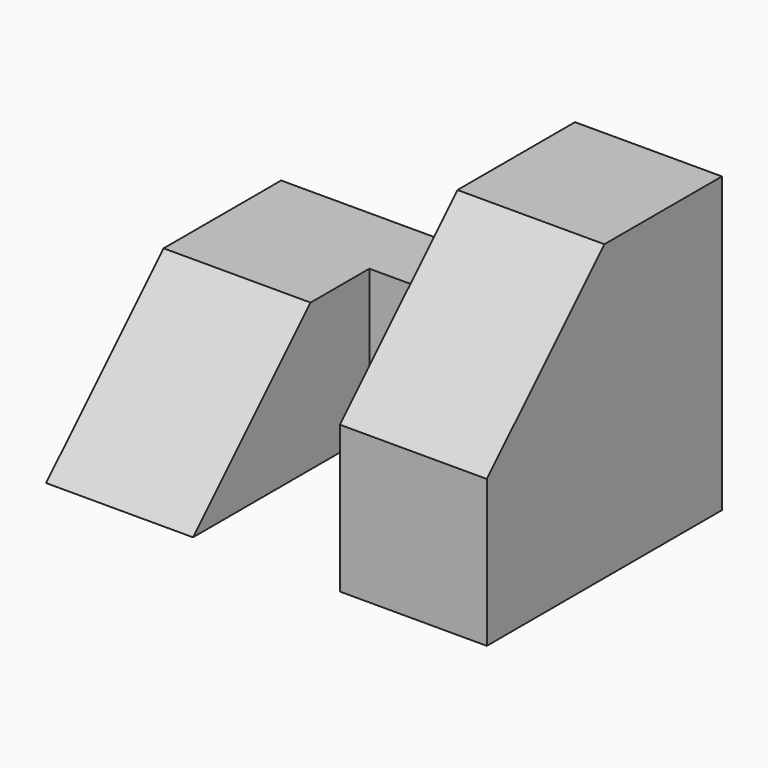
from build123d import *

# Parameters (mm, degrees)
F0_W     = 12.7
F0_H     = 12.7
F1_DEPTH = 6.35
F2_DEPTH = 19.05
F5_DEPTH = 12.701


with BuildPart() as f1:
    # F0 (on Front) → F1 (new body)
    with BuildSketch(Plane.XZ):
        with Locations((-12.7, 6.35)):
            Rectangle(F0_W, F0_H)
        Polygon((6.35, 12.7), (6.35, 0), (19.05, 0), (19.05, 25.4), (6.35, 25.4), align=None)
        with Locations((0, 6.35)):
            Rectangle(F0_W, F0_H)
    extrude(amount=-F1_DEPTH)

    # F0 (on Front) → F2 (join)
    with BuildSketch(Plane.XZ):
        with Locations((-12.7, 6.35)):
            Rectangle(F0_W, F0_H)
        Polygon((6.35, 12.7), (6.35, 0), (19.05, 0), (19.05, 25.4), (6.35, 25.4), align=None)
    extrude(amount=F2_DEPTH)

    # F4 (on face) + F3 (on face) → F5 (cut, through all)
    with BuildSketch(Plane.YZ.offset(-6.35)):
        Polygon((-19.05, 12.7), (-19.05, 0), (-6.35, 12.7), align=None)
    with BuildSketch(Plane.YZ.offset(19.05)):
        Polygon((-19.05, 25.4), (-19.05, 12.7), (-6.35, 25.4), align=None)
    extrude(amount=-F5_DEPTH, mode=Mode.SUBTRACT)


solid = f1.part
